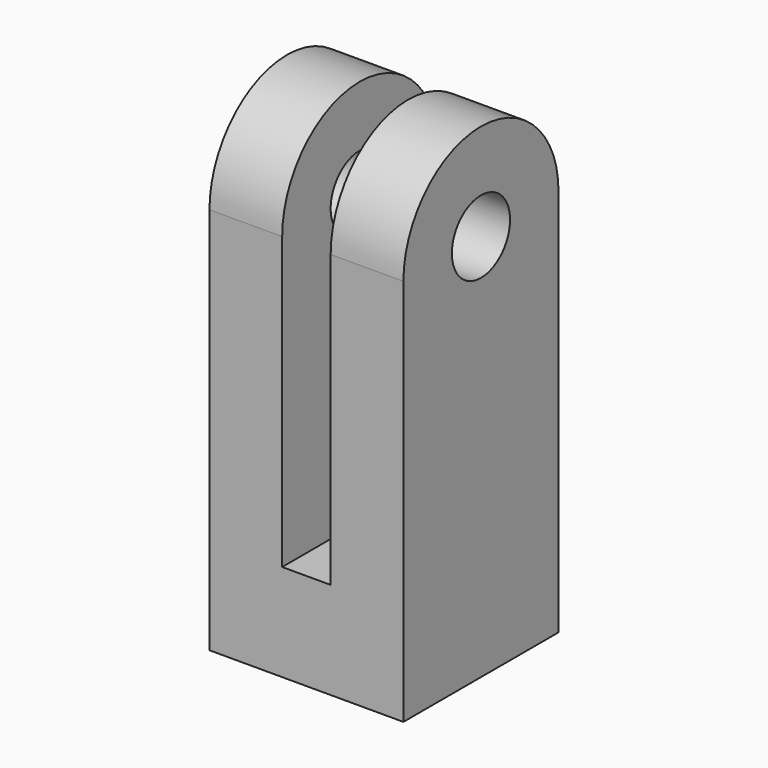
from build123d import *

# Parameters (mm, degrees)
SKETCH007_W           = 10
SKETCH007_H           = 85.035517
EXTRUDE007_DEPTH      = 50
SKETCH006_R           = 7.5
EXTRUDE006_DEPTH      = 20
CLONE_PLACEMENT_ANGLE = 180


with BuildPart() as extrude007:
    # Sketch007 → Extrude007 (new body)
    with BuildSketch(Plane.XZ.offset(20)):
        with Locations((0, 17.482242)):
            Rectangle(SKETCH007_W, SKETCH007_H)
    extrude(amount=-EXTRUDE007_DEPTH)


with BuildPart() as cut003:
    # Sketch006 → Extrude006 (new body, symmetric)
    with BuildSketch(Plane.YZ):
        with BuildLine():
            ThreePointArc((-20, 9e-06), (1.3e-05, -20), (20, 3.6e-05))
            Line((20, 80), (20, 3.6e-05))
            Line((-20, 80), (20, 80))
            Line((-20, 9e-06), (-20, 80))
        make_face()
        Circle(SKETCH006_R, mode=Mode.SUBTRACT)
    extrude(amount=EXTRUDE006_DEPTH, both=True)

    # Cut002: cut Extrude007
    add(extrude007.part, mode=Mode.SUBTRACT)


with BuildPart() as cut003_1:
    # Clone placement: moved
    add(cut003.part.moved(Location((0, 0, 850))).rotate(Axis((0, 0, 850), (0, 1, 0)), CLONE_PLACEMENT_ANGLE))


solid = cut003_1.part
